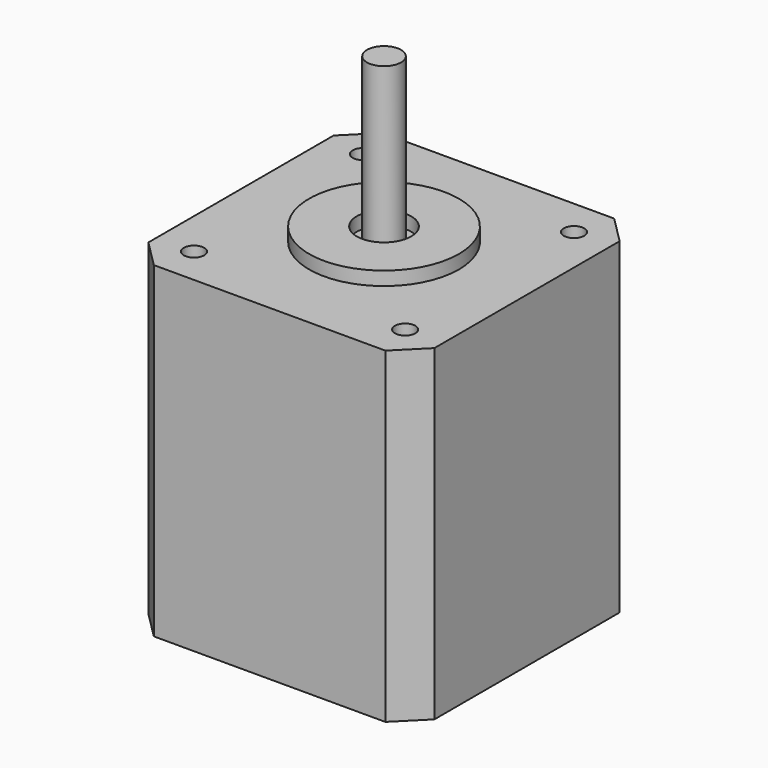
from build123d import *

# Parameters (mm, degrees)
F0_R     = 1.5
F1_DEPTH = 48
F2_R     = 11
F2_R_2   = 4
F3_DEPTH = 2
F4_R     = 2.5
F5_DEPTH = 24


with BuildPart() as f1:
    # F0 (on Top) → F1 (new body)
    with BuildSketch(Plane.XY):
        Polygon((-21, 17), (-21, 0), (-21, -17), (-17, -21), (0, -21), (17, -21), (21, -17), (21, 0), (21, 17), (17, 21), (0, 21), (-17, 21), align=None)
        with Locations((-15.5, -15.5)):
            Circle(F0_R, mode=Mode.SUBTRACT)
        with Locations((15.5, -15.5)):
            Circle(F0_R, mode=Mode.SUBTRACT)
        with Locations((-15.5, 15.5)):
            Circle(F0_R, mode=Mode.SUBTRACT)
        with Locations((15.5, 15.5)):
            Circle(F0_R, mode=Mode.SUBTRACT)
    extrude(amount=-F1_DEPTH)

    # F2 (on face) → F3 (join)
    with BuildSketch(Plane.XY):
        Circle(F2_R)
        Circle(F2_R_2, mode=Mode.SUBTRACT)
    extrude(amount=F3_DEPTH)

    # F4 (on face) → F5 (join)
    with BuildSketch(Plane.XY):
        Circle(F4_R)
    extrude(amount=F5_DEPTH)


solid = f1.part
